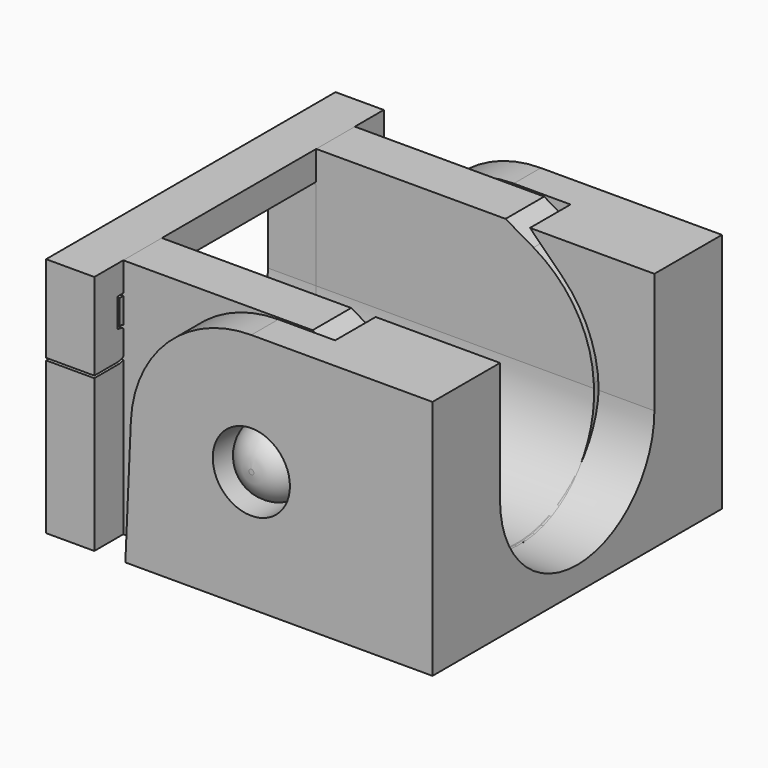
from build123d import *

# Parameters (mm, degrees)
PAD_DEPTH            = 6
POCKET002_DEPTH      = 0.001
POCKET002_DEPTH_BACK = -12.710942
SKETCH012_R          = 1.5
POCKET005_DEPTH      = 10.001
POCKET005_DEPTH_BACK = 0.001
SKETCH001_R          = 1.6
PAD001_DEPTH         = 7.5
SKETCH003_R          = 1.6
POCKET_DEPTH         = 6.1
POCKET001_DEPTH      = 0.001
POCKET001_DEPTH_BACK = -15.02072
PAD002_DEPTH         = 1
SKETCH010_W          = 15
SKETCH010_H          = 10
PAD004_DEPTH         = 1
POCKET003_DEPTH      = 1.001
POCKET003_DEPTH_BACK = -1.001
POCKET004_DEPTH      = 1.001
POCKET004_DEPTH_BACK = -1.001


with BuildPart() as inner:
    # Sketch → Pad (new body, symmetric)
    with BuildSketch(Plane.XZ):
        with BuildLine():
            Line((0, 0), (12.709942, 0))
            Line((12.709942, 0), (12.505779, 5.196299))
            ThreePointArc((12.505779, 5.196299), (11.789842, 7.584534), (10.009634, 9.330127))
            Line((8.84938, 10), (10.009634, 9.330127))
            Line((7.509634, 10), (8.84938, 10))
            Line((7.509634, 10), (0, 10))
            Line((0, 10), (0, 0))
        make_face()
    extrude(amount=PAD_DEPTH, both=True)

    # Sketch005 (on DatumPlane) → Revolution (revolve)
    with BuildSketch(Plane(origin=(7.515413, -6, 5), x_dir=(0, -1, 0), z_dir=(-1, 0, 0))):
        with BuildLine():
            Line((0, 0), (1.5, 0))
            Line((1.5, 0.1), (1.5, 0))
            ThreePointArc((1.5, 0.1), (1.089949, 1.089949), (0.1, 1.5))
            Line((0.1, 1.5), (0, 1.5))
            Line((0, 1.5), (0, 0))
        make_face()
    revolution = revolve(axis=Axis((7.515413, -6, 5), (0, -1, 0)))

    # Mirrored: Revolution across XZ
    add(revolution.mirror(Plane.XZ))

    # Sketch007 → Pocket002 (cut, two sides)
    with BuildSketch(Plane.YZ) as pocket002_sk:
        with BuildLine():
            ThreePointArc((-4, 5), (0, 1), (4, 5))
            Line((4, 5), (4, 10))
            Line((4, 10), (-4, 10))
            Line((-4, 10), (-4, 5))
        make_face()
    extrude(amount=-POCKET002_DEPTH, mode=Mode.SUBTRACT)
    extrude(pocket002_sk.sketch, amount=-POCKET002_DEPTH_BACK, mode=Mode.SUBTRACT)

    # Sketch012 → Pocket005 (cut, two sides)
    with BuildSketch(Plane.XY) as pocket005_sk:
        with Locations((6.354971, 0)):
            Circle(SKETCH012_R)
    extrude(amount=POCKET005_DEPTH, mode=Mode.SUBTRACT)
    extrude(pocket005_sk.sketch, amount=-POCKET005_DEPTH_BACK, mode=Mode.SUBTRACT)


with BuildPart() as outer:
    # Sketch001 → Pad001 (new body, symmetric)
    with BuildSketch(Plane.XZ):
        with BuildLine():
            Line((15.01972, 10), (15.01972, 0))
            Line((15.01972, 0), (2.286566, 0))
            Line((2.286566, 0), (2.514393, 5.218097))
            ThreePointArc((7.509634, 10), (4.052069, 8.61182), (2.514393, 5.218097))
            Line((7.509634, 10), (15.01972, 10))
        make_face()
        with Locations((7.509634, 5)):
            Circle(SKETCH001_R, mode=Mode.SUBTRACT)
    extrude(amount=PAD001_DEPTH, both=True)

    # Sketch003 → Pocket (cut, symmetric)
    with BuildSketch(Plane.XZ):
        with BuildLine():
            Line((2.286566, 0), (2.514393, 5.218097))
            ThreePointArc((7.509634, 10), (4.052069, 8.61182), (2.514393, 5.218097))
            Line((9.863545, 10), (7.509634, 10))
            Line((11.186589, 8.676955), (9.863545, 10))
            ThreePointArc((12.709634, 5), (12.313808, 6.989954), (11.186589, 8.676955))
            Line((12.491329, 0), (12.709634, 5))
            Line((2.514393, 0), (12.491329, 0))
            Line((2.286566, 0), (2.514393, 0))
        make_face()
        with Locations((7.509634, 5)):
            Circle(SKETCH003_R, mode=Mode.SUBTRACT)
    extrude(amount=POCKET_DEPTH, both=True, mode=Mode.SUBTRACT)

    # Sketch006 → Pocket001 (cut, two sides)
    with BuildSketch(Plane.YZ) as pocket001_sk:
        with BuildLine():
            ThreePointArc((-4, 5.000021), (0, 1), (4, 5.000021))
            Line((4, 5.000021), (4, 10))
            Line((4, 10), (-4, 10))
            Line((-4, 10), (-4, 5.000021))
        make_face()
    extrude(amount=-POCKET001_DEPTH, mode=Mode.SUBTRACT)
    extrude(pocket001_sk.sketch, amount=-POCKET001_DEPTH_BACK, mode=Mode.SUBTRACT)


with BuildPart() as separator_clip:
    # Sketch008 → Pad002 (new body, symmetric)
    with BuildSketch(Plane.YZ):
        with BuildLine():
            Line((7.5, 10), (-7.5, 10))
            Line((-7.5, 10), (-7.5, 6.4))
            Line((-7.5, 6.4), (-6.3, 6.4))
            ThreePointArc((-6.3, 6.4), (-5.700005, 7), (-6.3, 7.6))
            Line((-6.3, 7.6), (-6.3, 8.8))
            Line((-6.3, 8.8), (6.3, 8.8))
            Line((6.3, 8.8), (6.3, 7.6))
            ThreePointArc((6.3, 7.6), (5.700005, 7), (6.3, 6.4))
            Line((6.3, 6.4), (7.5, 6.4))
            Line((7.5, 6.4), (7.5, 10))
        make_face()
    extrude(amount=PAD002_DEPTH, both=True)


with BuildPart() as separator:
    # Sketch010 → Pad004 (new body, symmetric)
    with BuildSketch(Plane.YZ):
        with Locations((0, 5)):
            Rectangle(SKETCH010_W, SKETCH010_H)
    extrude(amount=PAD004_DEPTH, both=True)

    # Sketch009 → Pocket003 (cut, two sides)
    with BuildSketch(Plane.YZ) as pocket003_sk:
        with BuildLine():
            Line((7.5, 10), (-7.5, 10))
            Line((-7.5, 10), (-7.5, 6.305353))
            Line((-7.5, 6.305353), (-6.213595, 6.305353))
            ThreePointArc((-6.213595, 6.305353), (-5.600034, 6.993141), (-6.2, 7.69282))
            Line((-6.2, 7.69282), (-6.2, 8.7))
            Line((-6.2, 8.7), (6.2, 8.7))
            Line((6.2, 8.7), (6.2, 7.69282))
            ThreePointArc((6.2, 7.69282), (5.600034, 6.993141), (6.213595, 6.305353))
            Line((6.213595, 6.305353), (7.5, 6.305353))
            Line((7.5, 6.305353), (7.5, 10))
        make_face()
    extrude(amount=-POCKET003_DEPTH, mode=Mode.SUBTRACT)
    extrude(pocket003_sk.sketch, amount=-POCKET003_DEPTH_BACK, mode=Mode.SUBTRACT)

    # Sketch011 → Pocket004 (cut, two sides)
    with BuildSketch(Plane.YZ) as pocket004_sk:
        with BuildLine():
            ThreePointArc((-4, 5), (0, 1), (4, 5))
            Line((4, 5), (4, 10))
            Line((4, 10), (-4, 10))
            Line((-4, 10), (-4, 5))
        make_face()
    extrude(amount=-POCKET004_DEPTH, mode=Mode.SUBTRACT)
    extrude(pocket004_sk.sketch, amount=-POCKET004_DEPTH_BACK, mode=Mode.SUBTRACT)


solid = Compound([inner.part, outer.part, separator_clip.part, separator.part])
